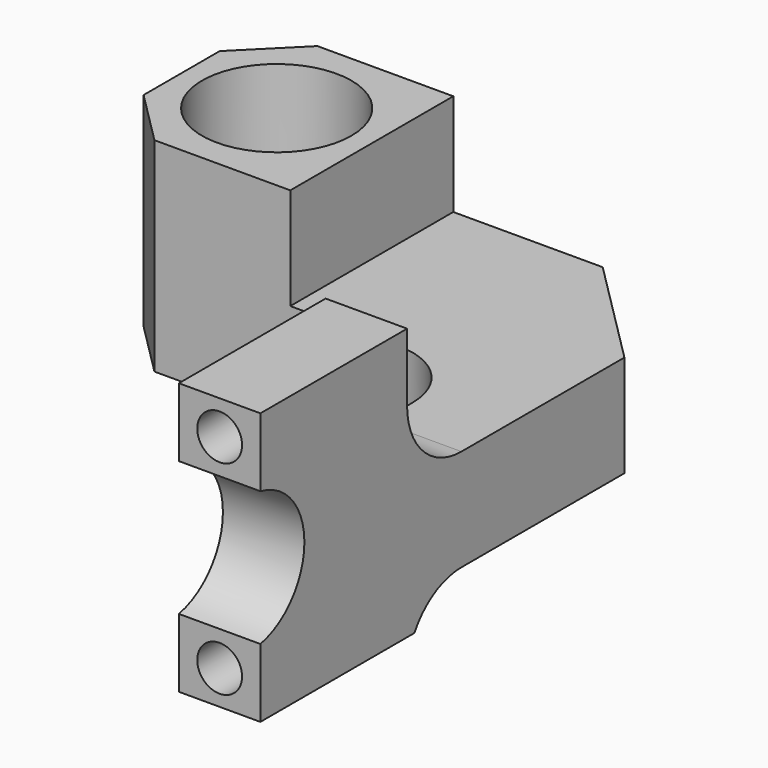
from build123d import *

# Parameters (mm, degrees)
F0_R      = 5.5
F1_DEPTH  = 20
F2_R      = 5
F3_W      = 28
F3_H      = 10
F4_DEPTH  = 19
F5_W      = 14
F5_H      = 15
F6_DEPTH  = 2.5
F7_R      = 5
F8_R      = 5.05
F9_DEPTH  = 33
F10_R     = 1.65
F11_DEPTH = 9.5
F12_R     = 1.470884
F13_DEPTH = 6.5


with BuildPart() as f1:
    # F0 (on Top) → F1 (new body)
    with BuildSketch(Plane.XY):
        Polygon((22.324427, -26.5), (22.324427, 7), (14.324427, 15), (-6.675573, 15), (-10.675573, 11), (-10.675573, 4), (-6.675573, 0), (16.324427, 0), (16.324427, -26.5), align=None)
        with Locations((-3.675573, 7.5)):
            Circle(F0_R, mode=Mode.SUBTRACT)
    extrude(amount=F1_DEPTH)

    # F2
    f2_edges = [f1.edges().sort_by_distance(p)[0] for p in [
        (16.324427, 0, 10),
    ]]
    fillet(f2_edges, radius=F2_R)

    # F3 (on face) → F4 (cut)
    with BuildSketch(Plane.YZ.offset(22.324427)):
        with Locations((1, 15)):
            Rectangle(F3_W, F3_H)
    extrude(amount=-F4_DEPTH, mode=Mode.SUBTRACT)

    # F5 (on face) → F6 (cut)
    with BuildSketch(Plane.XY.offset(20)):
        with Locations((-3.675573, 7.5)):
            Rectangle(F5_W, F5_H)
    extrude(amount=-F6_DEPTH, mode=Mode.SUBTRACT)

    # F7
    f7_edges = [f1.edges().sort_by_distance(p)[0] for p in [
        (19.324427, -13, 10),
    ]]
    fillet(f7_edges, radius=F7_R)

    # F8 (on face) → F9 (cut)
    with BuildSketch(Plane.YZ.offset(22.324427)):
        with BuildLine():
            Line((-13, -2.5), (-13, -12.279106))
            Line((-13, -12.279106), (27.693347, -12.279106))
            Line((27.693347, -12.279106), (27.693347, 2.5))
            Line((27.693347, 2.5), (-8, 2.5))
            ThreePointArc((-8, 2.5), (-11.535534, 1.035534), (-13, -2.5))
        make_face()
        with Locations((-27.5, 10)):
            Circle(F8_R)
    extrude(amount=-F9_DEPTH, mode=Mode.SUBTRACT)

    # F10 (on face) → F11 (cut)
    with BuildSketch(Plane.XZ.offset(26.5)):
        with Locations((19.324427, 17.5)):
            Circle(F10_R)
        with Locations((19.324427, 2.5)):
            Circle(F10_R)
    extrude(amount=-F11_DEPTH, mode=Mode.SUBTRACT)

    # F12 (on face) → F13 (cut)
    with BuildSketch(Plane(origin=(0, 0, 2.5), x_dir=(1, 0, 0), z_dir=(0, 0, -1))):
        with Locations((7.574427, -2.75)):
            Circle(F12_R)
        with Locations((7.574427, -13.25)):
            Circle(F12_R)
        with Locations((13.074427, -2.75)):
            Circle(F12_R)
        with Locations((13.074427, -13.25)):
            Circle(F12_R)
    extrude(amount=-F13_DEPTH, mode=Mode.SUBTRACT)


solid = f1.part
